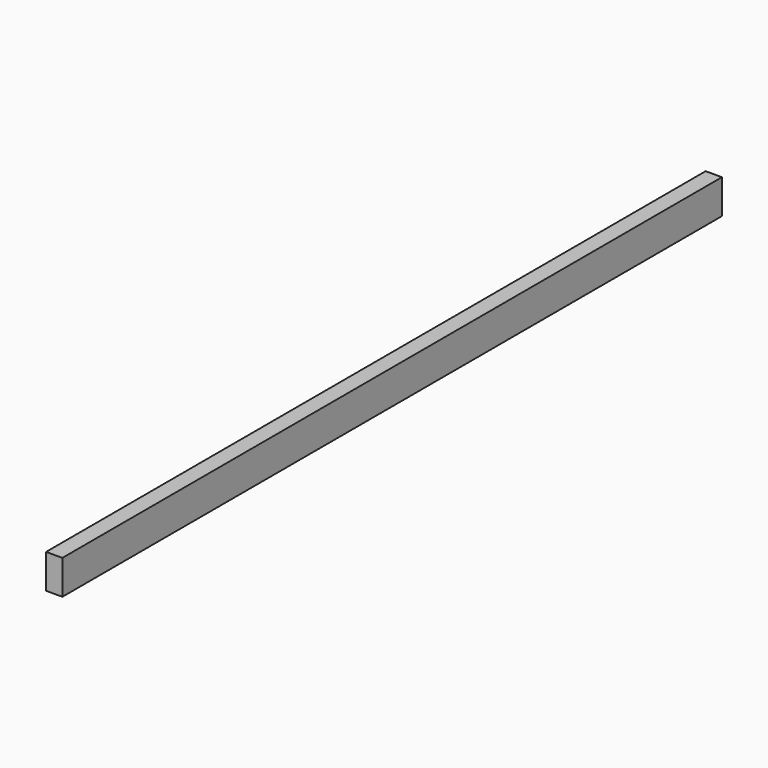
from build123d import *

# Parameters (mm, degrees)
F1_W     = 19
F1_H     = 40
F2_DEPTH = 762
F3_DEPTH = 581
F4_DEPTH = 962


with BuildPart() as f2:
    # F1 (on Front) → F2 (new body)
    with BuildSketch(Plane.XZ):
        with Locations((9.5, 20)):
            Rectangle(F1_W, F1_H)
    extrude(amount=F2_DEPTH)


with BuildPart() as f3:
    # F1 (on Front) → F3 (new body)
    with BuildSketch(Plane.XZ):
        with Locations((9.5, 20)):
            Rectangle(F1_W, F1_H)
    extrude(amount=F3_DEPTH)


with BuildPart() as f4:
    # F1 (on Front) → F4 (new body)
    with BuildSketch(Plane.XZ):
        with Locations((9.5, 20)):
            Rectangle(F1_W, F1_H)
    extrude(amount=F4_DEPTH)


solid = Compound([f2.part, f3.part, f4.part])
